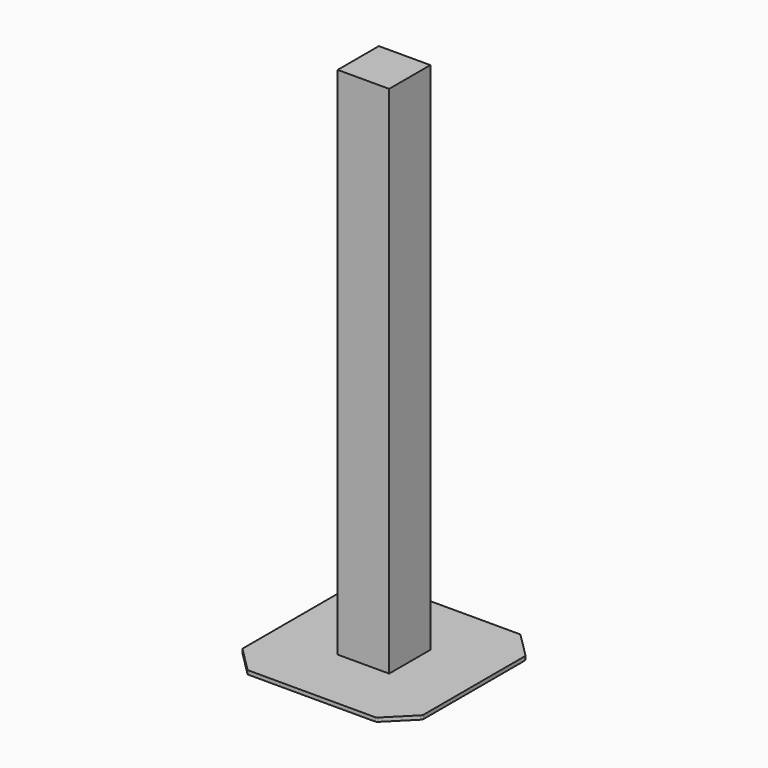
from build123d import *

# Parameters (mm, degrees)
F0_W     = 80
F0_H     = 80
F1_DEPTH = 800
F2_W     = 280
F2_H     = 280
F3_DEPTH = 6
F4_SIZE  = 40
F5_R     = 5


with BuildPart() as f1:
    # F0 (on Top) → F1 (new body)
    with BuildSketch(Plane.XY):
        Rectangle(F0_W, F0_H)
    extrude(amount=F1_DEPTH)

    # F2 (on face) → F3 (join)
    with BuildSketch(Plane(origin=(0, 0, 0), x_dir=(1, 0, 0), z_dir=(0, 0, -1))):
        Rectangle(F2_W, F2_H)
    extrude(amount=F3_DEPTH)

    # F4
    f4_edges = [f1.edges().sort_by_distance(p)[0] for p in [
        (140, -140, -3),
        (140, 140, -3),
        (-140, 140, -3),
        (-140, -140, -3),
    ]]
    chamfer(f4_edges, length=F4_SIZE)

    # F5
    f5_edges = [f1.edges().sort_by_distance(p)[0] for p in [
        (140, -100, -3),
        (100, -140, -3),
        (140, 100, -3),
        (100, 140, -3),
        (-100, 140, -3),
        (-140, 100, -3),
        (-100, -140, -3),
        (-140, -100, -3),
    ]]
    fillet(f5_edges, radius=F5_R)


solid = f1.part
